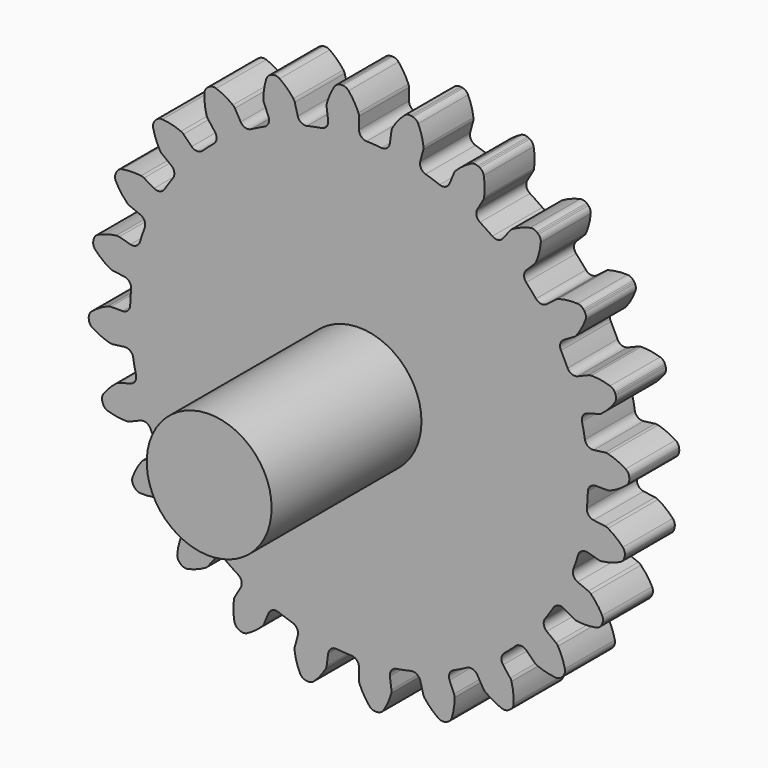
from build123d import *

# Parameters (mm, degrees)
F1_DEPTH = 6.35
F2_R     = 6.35
F3_DEPTH = 19.05
F4_R     = 3.175
F5_DEPTH = 5.08


with BuildPart() as f1:
    # F0 (on Front) → F1 (new body)
    with BuildSketch(Plane.XZ):
        with BuildLine():
            ThreePointArc((-3.140982, 23.858125), (-3.290336, 23.281763), (-3.798449, 22.971404))
            ThreePointArc((-3.798449, 22.971404), (-4.542353, 22.835951), (-5.281467, 22.676413))
            ThreePointArc((-5.281467, 22.676413), (-5.86967, 22.768701), (-6.22822, 23.244035))
            Line((-6.22822, 23.244035), (-6.534541, 24.38724))
            ThreePointArc((-6.534541, 24.38724), (-6.589373, 24.532912), (-6.671578, 24.665082))
            ThreePointArc((-6.671578, 24.665082), (-7.317741, 25.385798), (-8.065939, 25.999929))
            ThreePointArc((-8.065939, 25.999929), (-8.38342, 26.131474), (-8.726748, 26.116497))
            Line((-8.726748, 26.116497), (-8.8538, 26.082454))
            Line((-8.8538, 26.082454), (-8.975321, 26.032118))
            ThreePointArc((-8.975321, 26.032118), (-9.256819, 25.834995), (-9.428614, 25.537363))
            ThreePointArc((-9.428614, 25.537363), (-9.648341, 24.594666), (-9.722232, 23.629525))
            ThreePointArc((-9.722232, 23.629525), (-9.706989, 23.474624), (-9.661811, 23.325675))
            Line((-9.661811, 23.325675), (-9.208893, 22.232233))
            ThreePointArc((-9.208893, 22.232233), (-9.203985, 21.636854), (-9.614456, 21.205562))
            ThreePointArc((-9.614456, 21.205562), (-10.297955, 20.882187), (-10.970593, 20.536789))
            ThreePointArc((-10.970593, 20.536789), (-11.56264, 20.473694), (-12.031998, 20.840032))
            Line((-12.031998, 20.840032), (-12.623765, 21.865002))
            ThreePointArc((-12.623765, 21.865002), (-12.714431, 21.991518), (-12.828043, 22.097908))
            ThreePointArc((-12.828043, 22.097908), (-13.638723, 22.626827), (-14.520376, 23.026384))
            ThreePointArc((-14.520376, 23.026384), (-14.861085, 23.071277), (-15.188838, 22.96795))
            Line((-15.188838, 22.96795), (-15.30275, 22.902183))
            Line((-15.30275, 22.902183), (-15.407102, 22.822111))
            ThreePointArc((-15.407102, 22.822111), (-15.62799, 22.558848), (-15.716898, 22.226893))
            ThreePointArc((-15.716898, 22.226893), (-15.685149, 21.259449), (-15.506726, 20.30807))
            ThreePointArc((-15.506726, 20.30807), (-15.451911, 20.162392), (-15.369722, 20.030212))
            Line((-15.369722, 20.030212), (-14.649233, 19.091252))
            ThreePointArc((-14.649233, 19.091252), (-14.490396, 18.51743), (-14.775255, 17.994595))
            ThreePointArc((-14.775255, 17.994595), (-15.351768, 17.505337), (-15.912091, 16.997617))
            ThreePointArc((-15.912091, 16.997617), (-16.467634, 16.783439), (-17.015815, 17.015815))
            Line((-17.015815, 17.015815), (-17.852699, 17.852699))
            ThreePointArc((-17.852699, 17.852699), (-17.973021, 17.951438), (-18.110298, 18.024799))
            ThreePointArc((-18.110298, 18.024799), (-19.030249, 18.325876), (-19.985273, 18.483629))
            ThreePointArc((-19.985273, 18.483629), (-20.325992, 18.438811), (-20.615834, 18.254176))
            Line((-20.615834, 18.254176), (-20.708842, 18.161167))
            Line((-20.708842, 18.161167), (-20.788915, 18.056815))
            ThreePointArc((-20.788915, 18.056815), (-20.934138, 17.745353), (-20.934101, 17.401698))
            ThreePointArc((-20.934101, 17.401698), (-20.653041, 16.475435), (-20.234462, 15.602653))
            ThreePointArc((-20.234462, 15.602653), (-20.143811, 15.476126), (-20.030212, 15.369722))
            Line((-20.030212, 15.369722), (-19.091252, 14.649233))
            ThreePointArc((-19.091252, 14.649233), (-18.789312, 14.136073), (-18.929144, 13.557327))
            ThreePointArc((-18.929144, 13.557327), (-19.359384, 12.935527), (-19.769207, 12.300085))
            ThreePointArc((-19.769207, 12.300085), (-20.250387, 11.949419), (-20.840032, 12.031998))
            Line((-20.840032, 12.031998), (-21.865002, 12.623765))
            ThreePointArc((-21.865002, 12.623765), (-22.006779, 12.687998), (-22.158365, 12.723329))
            ThreePointArc((-22.158365, 12.723329), (-23.124894, 12.776046), (-24.088206, 12.681246))
            ThreePointArc((-24.088206, 12.681246), (-24.405716, 12.54977), (-24.637895, 12.296409))
            Line((-24.637895, 12.296409), (-24.703662, 12.182498))
            Line((-24.703662, 12.182498), (-24.753998, 12.060977))
            ThreePointArc((-24.753998, 12.060977), (-24.81366, 11.722541), (-24.724679, 11.390606))
            ThreePointArc((-24.724679, 11.390606), (-24.213462, 10.568648), (-23.583253, 9.833941))
            ThreePointArc((-23.583253, 9.833941), (-23.462944, 9.735188), (-23.325675, 9.661811))
            Line((-23.325675, 9.661811), (-22.232233, 9.208893))
            ThreePointArc((-22.232233, 9.208893), (-21.807766, 8.791366), (-21.793044, 8.196149))
            ThreePointArc((-21.793044, 8.196149), (-22.04769, 7.484182), (-22.279083, 6.764322))
            ThreePointArc((-22.279083, 6.764322), (-22.653109, 6.301067), (-23.244035, 6.22822))
            Line((-23.244035, 6.22822), (-24.38724, 6.534541))
            ThreePointArc((-24.38724, 6.534541), (-24.540812, 6.559891), (-24.696377, 6.554785))
            ThreePointArc((-24.696377, 6.554785), (-25.643616, 6.35555), (-26.549568, 6.014656))
            ThreePointArc((-26.549568, 6.014656), (-26.822231, 5.805482), (-26.980924, 5.500663))
            Line((-26.980924, 5.500663), (-27.014967, 5.373611))
            Line((-27.014967, 5.373611), (-27.032136, 5.243203))
            ThreePointArc((-27.032136, 5.243203), (-27.002172, 4.900857), (-26.830312, 4.603262))
            ThreePointArc((-26.830312, 4.603262), (-26.123776, 3.941625), (-25.324885, 3.395063))
            ThreePointArc((-25.324885, 3.395063), (-25.183115, 3.330813), (-25.031533, 3.295464))
            Line((-25.031533, 3.295464), (-23.858125, 3.140982))
            ThreePointArc((-23.858125, 3.140982), (-23.340058, 2.847543), (-23.171783, 2.276417))
            ThreePointArc((-23.171783, 2.276417), (-23.233482, 1.522803), (-23.270677, 0.767582))
            ThreePointArc((-23.270677, 0.767582), (-23.512059, 0.223307), (-24.063996, 0))
            Line((-24.063996, 0), (-25.247529, 0))
            ThreePointArc((-25.247529, 0), (-25.402429, -0.015261), (-25.551372, -0.060457))
            ThreePointArc((-25.551372, -0.060457), (-26.414769, -0.498067), (-27.201621, -1.061822))
            ThreePointArc((-27.201621, -1.061822), (-27.410855, -1.334439), (-27.485248, -1.669945))
            Line((-27.485248, -1.669945), (-27.485248, -1.801478))
            Line((-27.485248, -1.801478), (-27.468079, -1.931887))
            ThreePointArc((-27.468079, -1.931887), (-27.35053, -2.254812), (-27.107503, -2.497786))
            ThreePointArc((-27.107503, -2.497786), (-26.253797, -2.954013), (-25.340667, -3.275184))
            ThreePointArc((-25.340667, -3.275184), (-25.187099, -3.300552), (-25.031533, -3.295464))
            Line((-25.031533, -3.295464), (-23.858125, -3.140982))
            ThreePointArc((-23.858125, -3.140982), (-23.281763, -3.290336), (-22.971404, -3.798449))
            ThreePointArc((-22.971404, -3.798449), (-22.835951, -4.542353), (-22.676413, -5.281467))
            ThreePointArc((-22.676413, -5.281467), (-22.768701, -5.86967), (-23.244035, -6.22822))
            Line((-23.244035, -6.22822), (-24.38724, -6.534541))
            ThreePointArc((-24.38724, -6.534541), (-24.532912, -6.589373), (-24.665082, -6.671578))
            ThreePointArc((-24.665082, -6.671578), (-25.385798, -7.317741), (-25.999929, -8.065939))
            ThreePointArc((-25.999929, -8.065939), (-26.131474, -8.38342), (-26.116497, -8.726748))
            Line((-26.116497, -8.726748), (-26.082454, -8.8538))
            Line((-26.082454, -8.8538), (-26.032118, -8.975321))
            ThreePointArc((-26.032118, -8.975321), (-25.834995, -9.256819), (-25.537363, -9.428614))
            ThreePointArc((-25.537363, -9.428614), (-24.594666, -9.648341), (-23.629525, -9.722232))
            ThreePointArc((-23.629525, -9.722232), (-23.474624, -9.706989), (-23.325675, -9.661811))
            Line((-23.325675, -9.661811), (-22.232233, -9.208893))
            ThreePointArc((-22.232233, -9.208893), (-21.636854, -9.203985), (-21.205562, -9.614456))
            ThreePointArc((-21.205562, -9.614456), (-20.882187, -10.297955), (-20.536789, -10.970593))
            ThreePointArc((-20.536789, -10.970593), (-20.473694, -11.56264), (-20.840032, -12.031998))
            Line((-20.840032, -12.031998), (-21.865002, -12.623765))
            ThreePointArc((-21.865002, -12.623765), (-21.991518, -12.714431), (-22.097908, -12.828043))
            ThreePointArc((-22.097908, -12.828043), (-22.626827, -13.638723), (-23.026384, -14.520376))
            ThreePointArc((-23.026384, -14.520376), (-23.071277, -14.861085), (-22.96795, -15.188838))
            Line((-22.96795, -15.188838), (-22.902183, -15.30275))
            Line((-22.902183, -15.30275), (-22.822111, -15.407102))
            ThreePointArc((-22.822111, -15.407102), (-22.558848, -15.62799), (-22.226893, -15.716898))
            ThreePointArc((-22.226893, -15.716898), (-21.259449, -15.685149), (-20.30807, -15.506726))
            ThreePointArc((-20.30807, -15.506726), (-20.162392, -15.451911), (-20.030212, -15.369722))
            Line((-20.030212, -15.369722), (-19.091252, -14.649233))
            ThreePointArc((-19.091252, -14.649233), (-18.51743, -14.490396), (-17.994595, -14.775255))
            ThreePointArc((-17.994595, -14.775255), (-17.505337, -15.351768), (-16.997617, -15.912091))
            ThreePointArc((-16.997617, -15.912091), (-16.783439, -16.467634), (-17.015815, -17.015815))
            Line((-17.015815, -17.015815), (-17.852699, -17.852699))
            ThreePointArc((-17.852699, -17.852699), (-17.951438, -17.973021), (-18.024799, -18.110298))
            ThreePointArc((-18.024799, -18.110298), (-18.325876, -19.030249), (-18.483629, -19.985273))
            ThreePointArc((-18.483629, -19.985273), (-18.438811, -20.325992), (-18.254176, -20.615834))
            Line((-18.254176, -20.615834), (-18.161167, -20.708842))
            Line((-18.161167, -20.708842), (-18.056815, -20.788915))
            ThreePointArc((-18.056815, -20.788915), (-17.745353, -20.934138), (-17.401698, -20.934101))
            ThreePointArc((-17.401698, -20.934101), (-16.475435, -20.653041), (-15.602653, -20.234462))
            ThreePointArc((-15.602653, -20.234462), (-15.476126, -20.143811), (-15.369722, -20.030212))
            Line((-15.369722, -20.030212), (-14.649233, -19.091252))
            ThreePointArc((-14.649233, -19.091252), (-14.136073, -18.789312), (-13.557327, -18.929144))
            ThreePointArc((-13.557327, -18.929144), (-12.935527, -19.359384), (-12.300085, -19.769207))
            ThreePointArc((-12.300085, -19.769207), (-11.949419, -20.250387), (-12.031998, -20.840032))
            Line((-12.031998, -20.840032), (-12.623765, -21.865002))
            ThreePointArc((-12.623765, -21.865002), (-12.687998, -22.006779), (-12.723329, -22.158365))
            ThreePointArc((-12.723329, -22.158365), (-12.776046, -23.124894), (-12.681246, -24.088206))
            ThreePointArc((-12.681246, -24.088206), (-12.54977, -24.405716), (-12.296409, -24.637895))
            Line((-12.296409, -24.637895), (-12.182498, -24.703662))
            Line((-12.182498, -24.703662), (-12.060977, -24.753998))
            ThreePointArc((-12.060977, -24.753998), (-11.722541, -24.81366), (-11.390606, -24.724679))
            ThreePointArc((-11.390606, -24.724679), (-10.568648, -24.213462), (-9.833941, -23.583253))
            ThreePointArc((-9.833941, -23.583253), (-9.735188, -23.462944), (-9.661811, -23.325675))
            Line((-9.661811, -23.325675), (-9.208893, -22.232233))
            ThreePointArc((-9.208893, -22.232233), (-8.791366, -21.807766), (-8.196149, -21.793044))
            ThreePointArc((-8.196149, -21.793044), (-7.484182, -22.04769), (-6.764322, -22.279083))
            ThreePointArc((-6.764322, -22.279083), (-6.301067, -22.653109), (-6.22822, -23.244035))
            Line((-6.22822, -23.244035), (-6.534541, -24.38724))
            ThreePointArc((-6.534541, -24.38724), (-6.559891, -24.540812), (-6.554785, -24.696377))
            ThreePointArc((-6.554785, -24.696377), (-6.35555, -25.643616), (-6.014656, -26.549568))
            ThreePointArc((-6.014656, -26.549568), (-5.805482, -26.822231), (-5.500663, -26.980924))
            Line((-5.500663, -26.980924), (-5.373611, -27.014967))
            Line((-5.373611, -27.014967), (-5.243203, -27.032136))
            ThreePointArc((-5.243203, -27.032136), (-4.900857, -27.002172), (-4.603262, -26.830312))
            ThreePointArc((-4.603262, -26.830312), (-3.941625, -26.123776), (-3.395063, -25.324885))
            ThreePointArc((-3.395063, -25.324885), (-3.330813, -25.183115), (-3.295464, -25.031533))
            Line((-3.295464, -25.031533), (-3.140982, -23.858125))
            ThreePointArc((-3.140982, -23.858125), (-2.847543, -23.340058), (-2.276417, -23.171783))
            ThreePointArc((-2.276417, -23.171783), (-1.522803, -23.233482), (-0.767582, -23.270677))
            ThreePointArc((-0.767582, -23.270677), (-0.223307, -23.512059), (0, -24.063996))
            Line((0, -24.063996), (0, -25.247529))
            ThreePointArc((0, -25.247529), (0.015261, -25.402429), (0.060457, -25.551372))
            ThreePointArc((0.060457, -25.551372), (0.498067, -26.414769), (1.061822, -27.201621))
            ThreePointArc((1.061822, -27.201621), (1.334439, -27.410855), (1.669945, -27.485248))
            Line((1.669945, -27.485248), (1.801478, -27.485248))
            Line((1.801478, -27.485248), (1.931887, -27.468079))
            ThreePointArc((1.931887, -27.468079), (2.254812, -27.35053), (2.497786, -27.107503))
            ThreePointArc((2.497786, -27.107503), (2.954013, -26.253797), (3.275184, -25.340667))
            ThreePointArc((3.275184, -25.340667), (3.300552, -25.187099), (3.295464, -25.031533))
            Line((3.295464, -25.031533), (3.140982, -23.858125))
            ThreePointArc((3.140982, -23.858125), (3.290336, -23.281763), (3.798449, -22.971404))
            ThreePointArc((3.798449, -22.971404), (4.542353, -22.835951), (5.281467, -22.676413))
            ThreePointArc((5.281467, -22.676413), (5.86967, -22.768701), (6.22822, -23.244035))
            Line((6.22822, -23.244035), (6.534541, -24.38724))
            ThreePointArc((6.534541, -24.38724), (6.589373, -24.532912), (6.671578, -24.665082))
            ThreePointArc((6.671578, -24.665082), (7.317741, -25.385798), (8.065939, -25.999929))
            ThreePointArc((8.065939, -25.999929), (8.38342, -26.131474), (8.726748, -26.116497))
            Line((8.726748, -26.116497), (8.8538, -26.082454))
            Line((8.8538, -26.082454), (8.975321, -26.032118))
            ThreePointArc((8.975321, -26.032118), (9.256819, -25.834995), (9.428614, -25.537363))
            ThreePointArc((9.428614, -25.537363), (9.648341, -24.594666), (9.722232, -23.629525))
            ThreePointArc((9.722232, -23.629525), (9.706989, -23.474624), (9.661811, -23.325675))
            Line((9.661811, -23.325675), (9.208893, -22.232233))
            ThreePointArc((9.208893, -22.232233), (9.203985, -21.636854), (9.614456, -21.205562))
            ThreePointArc((9.614456, -21.205562), (10.297955, -20.882187), (10.970593, -20.536789))
            ThreePointArc((10.970593, -20.536789), (11.56264, -20.473694), (12.031998, -20.840032))
            Line((12.031998, -20.840032), (12.623765, -21.865002))
            ThreePointArc((12.623765, -21.865002), (12.714431, -21.991518), (12.828043, -22.097908))
            ThreePointArc((12.828043, -22.097908), (13.638723, -22.626827), (14.520376, -23.026384))
            ThreePointArc((14.520376, -23.026384), (14.861085, -23.071277), (15.188838, -22.96795))
            Line((15.188838, -22.96795), (15.30275, -22.902183))
            Line((15.30275, -22.902183), (15.407102, -22.822111))
            ThreePointArc((15.407102, -22.822111), (15.62799, -22.558848), (15.716898, -22.226893))
            ThreePointArc((15.716898, -22.226893), (15.685149, -21.259449), (15.506726, -20.30807))
            ThreePointArc((15.506726, -20.30807), (15.451911, -20.162392), (15.369722, -20.030212))
            Line((15.369722, -20.030212), (14.649233, -19.091252))
            ThreePointArc((14.649233, -19.091252), (14.490396, -18.51743), (14.775255, -17.994595))
            ThreePointArc((14.775255, -17.994595), (15.351768, -17.505337), (15.912091, -16.997617))
            ThreePointArc((15.912091, -16.997617), (16.467634, -16.783439), (17.015815, -17.015815))
            Line((17.015815, -17.015815), (17.852699, -17.852699))
            ThreePointArc((17.852699, -17.852699), (17.973021, -17.951438), (18.110298, -18.024799))
            ThreePointArc((18.110298, -18.024799), (19.030249, -18.325876), (19.985273, -18.483629))
            ThreePointArc((19.985273, -18.483629), (20.325992, -18.438811), (20.615834, -18.254176))
            Line((20.615834, -18.254176), (20.708842, -18.161167))
            Line((20.708842, -18.161167), (20.788915, -18.056815))
            ThreePointArc((20.788915, -18.056815), (20.934138, -17.745353), (20.934101, -17.401698))
            ThreePointArc((20.934101, -17.401698), (20.653041, -16.475435), (20.234462, -15.602653))
            ThreePointArc((20.234462, -15.602653), (20.143811, -15.476126), (20.030212, -15.369722))
            Line((20.030212, -15.369722), (19.091252, -14.649233))
            ThreePointArc((19.091252, -14.649233), (18.789312, -14.136073), (18.929144, -13.557327))
            ThreePointArc((18.929144, -13.557327), (19.359384, -12.935527), (19.769207, -12.300085))
            ThreePointArc((19.769207, -12.300085), (20.250387, -11.949419), (20.840032, -12.031998))
            Line((20.840032, -12.031998), (21.865002, -12.623765))
            ThreePointArc((21.865002, -12.623765), (22.006779, -12.687998), (22.158365, -12.723329))
            ThreePointArc((22.158365, -12.723329), (23.124894, -12.776046), (24.088206, -12.681246))
            ThreePointArc((24.088206, -12.681246), (24.405716, -12.54977), (24.637895, -12.296409))
            Line((24.637895, -12.296409), (24.703662, -12.182498))
            Line((24.703662, -12.182498), (24.753998, -12.060977))
            ThreePointArc((24.753998, -12.060977), (24.81366, -11.722541), (24.724679, -11.390606))
            ThreePointArc((24.724679, -11.390606), (24.213462, -10.568648), (23.583253, -9.833941))
            ThreePointArc((23.583253, -9.833941), (23.462944, -9.735188), (23.325675, -9.661811))
            Line((23.325675, -9.661811), (22.232233, -9.208893))
            ThreePointArc((22.232233, -9.208893), (21.807766, -8.791366), (21.793044, -8.196149))
            ThreePointArc((21.793044, -8.196149), (22.04769, -7.484182), (22.279083, -6.764322))
            ThreePointArc((22.279083, -6.764322), (22.653109, -6.301067), (23.244035, -6.22822))
            Line((23.244035, -6.22822), (24.38724, -6.534541))
            ThreePointArc((24.38724, -6.534541), (24.540812, -6.559891), (24.696377, -6.554785))
            ThreePointArc((24.696377, -6.554785), (25.643616, -6.35555), (26.549568, -6.014656))
            ThreePointArc((26.549568, -6.014656), (26.822231, -5.805482), (26.980924, -5.500663))
            Line((26.980924, -5.500663), (27.014967, -5.373611))
            Line((27.014967, -5.373611), (27.032136, -5.243203))
            ThreePointArc((27.032136, -5.243203), (27.002172, -4.900857), (26.830312, -4.603262))
            ThreePointArc((26.830312, -4.603262), (26.123776, -3.941625), (25.324885, -3.395063))
            ThreePointArc((25.324885, -3.395063), (25.183115, -3.330813), (25.031533, -3.295464))
            Line((25.031533, -3.295464), (23.858125, -3.140982))
            ThreePointArc((23.858125, -3.140982), (23.340058, -2.847543), (23.171783, -2.276417))
            ThreePointArc((23.171783, -2.276417), (23.233482, -1.522803), (23.270677, -0.767582))
            ThreePointArc((23.270677, -0.767582), (23.512059, -0.223307), (24.063996, 0))
            Line((24.063996, 0), (25.247529, 0))
            ThreePointArc((25.247529, 0), (25.402429, 0.015261), (25.551372, 0.060457))
            ThreePointArc((25.551372, 0.060457), (26.414769, 0.498067), (27.201621, 1.061822))
            ThreePointArc((27.201621, 1.061822), (27.410855, 1.334439), (27.485248, 1.669945))
            Line((27.485248, 1.669945), (27.485248, 1.801478))
            Line((27.485248, 1.801478), (27.468079, 1.931887))
            ThreePointArc((27.468079, 1.931887), (27.35053, 2.254812), (27.107503, 2.497786))
            ThreePointArc((27.107503, 2.497786), (26.253797, 2.954013), (25.340667, 3.275184))
            ThreePointArc((25.340667, 3.275184), (25.187099, 3.300552), (25.031533, 3.295464))
            Line((25.031533, 3.295464), (23.858125, 3.140982))
            ThreePointArc((23.858125, 3.140982), (23.281763, 3.290336), (22.971404, 3.798449))
            ThreePointArc((22.971404, 3.798449), (22.835951, 4.542353), (22.676413, 5.281467))
            ThreePointArc((22.676413, 5.281467), (22.768701, 5.86967), (23.244035, 6.22822))
            Line((23.244035, 6.22822), (24.38724, 6.534541))
            ThreePointArc((24.38724, 6.534541), (24.532912, 6.589373), (24.665082, 6.671578))
            ThreePointArc((24.665082, 6.671578), (25.385798, 7.317741), (25.999929, 8.065939))
            ThreePointArc((25.999929, 8.065939), (26.131474, 8.38342), (26.116497, 8.726748))
            Line((26.116497, 8.726748), (26.082454, 8.8538))
            Line((26.082454, 8.8538), (26.032118, 8.975321))
            ThreePointArc((26.032118, 8.975321), (25.834995, 9.256819), (25.537363, 9.428614))
            ThreePointArc((25.537363, 9.428614), (24.594666, 9.648341), (23.629525, 9.722232))
            ThreePointArc((23.629525, 9.722232), (23.474624, 9.706989), (23.325675, 9.661811))
            Line((23.325675, 9.661811), (22.232233, 9.208893))
            ThreePointArc((22.232233, 9.208893), (21.636854, 9.203985), (21.205562, 9.614456))
            ThreePointArc((21.205562, 9.614456), (20.882187, 10.297955), (20.536789, 10.970593))
            ThreePointArc((20.536789, 10.970593), (20.473694, 11.56264), (20.840032, 12.031998))
            Line((20.840032, 12.031998), (21.865002, 12.623765))
            ThreePointArc((21.865002, 12.623765), (21.991518, 12.714431), (22.097908, 12.828043))
            ThreePointArc((22.097908, 12.828043), (22.626827, 13.638723), (23.026384, 14.520376))
            ThreePointArc((23.026384, 14.520376), (23.071277, 14.861085), (22.96795, 15.188838))
            Line((22.96795, 15.188838), (22.902183, 15.30275))
            Line((22.902183, 15.30275), (22.822111, 15.407102))
            ThreePointArc((22.822111, 15.407102), (22.558848, 15.62799), (22.226893, 15.716898))
            ThreePointArc((22.226893, 15.716898), (21.259449, 15.685149), (20.30807, 15.506726))
            ThreePointArc((20.30807, 15.506726), (20.162392, 15.451911), (20.030212, 15.369722))
            Line((20.030212, 15.369722), (19.091252, 14.649233))
            ThreePointArc((19.091252, 14.649233), (18.51743, 14.490396), (17.994595, 14.775255))
            ThreePointArc((17.994595, 14.775255), (17.505337, 15.351768), (16.997617, 15.912091))
            ThreePointArc((16.997617, 15.912091), (16.783439, 16.467634), (17.015815, 17.015815))
            Line((17.015815, 17.015815), (17.852699, 17.852699))
            ThreePointArc((17.852699, 17.852699), (17.951438, 17.973021), (18.024799, 18.110298))
            ThreePointArc((18.024799, 18.110298), (18.325876, 19.030249), (18.483629, 19.985273))
            ThreePointArc((18.483629, 19.985273), (18.438811, 20.325992), (18.254176, 20.615834))
            Line((18.254176, 20.615834), (18.161167, 20.708842))
            Line((18.161167, 20.708842), (18.056815, 20.788915))
            ThreePointArc((18.056815, 20.788915), (17.745353, 20.934138), (17.401698, 20.934101))
            ThreePointArc((17.401698, 20.934101), (16.475435, 20.653041), (15.602653, 20.234462))
            ThreePointArc((15.602653, 20.234462), (15.476126, 20.143811), (15.369722, 20.030212))
            Line((15.369722, 20.030212), (14.649233, 19.091252))
            ThreePointArc((14.649233, 19.091252), (14.136073, 18.789312), (13.557327, 18.929144))
            ThreePointArc((13.557327, 18.929144), (12.935527, 19.359384), (12.300085, 19.769207))
            ThreePointArc((12.300085, 19.769207), (11.949419, 20.250387), (12.031998, 20.840032))
            Line((12.031998, 20.840032), (12.623765, 21.865002))
            ThreePointArc((12.623765, 21.865002), (12.687998, 22.006779), (12.723329, 22.158365))
            ThreePointArc((12.723329, 22.158365), (12.776046, 23.124894), (12.681246, 24.088206))
            ThreePointArc((12.681246, 24.088206), (12.54977, 24.405716), (12.296409, 24.637895))
            Line((12.296409, 24.637895), (12.182498, 24.703662))
            Line((12.182498, 24.703662), (12.060977, 24.753998))
            ThreePointArc((12.060977, 24.753998), (11.722541, 24.81366), (11.390606, 24.724679))
            ThreePointArc((11.390606, 24.724679), (10.568648, 24.213462), (9.833941, 23.583253))
            ThreePointArc((9.833941, 23.583253), (9.735188, 23.462944), (9.661811, 23.325675))
            Line((9.661811, 23.325675), (9.208893, 22.232233))
            ThreePointArc((9.208893, 22.232233), (8.791366, 21.807766), (8.196149, 21.793044))
            ThreePointArc((8.196149, 21.793044), (7.484182, 22.04769), (6.764322, 22.279083))
            ThreePointArc((6.764322, 22.279083), (6.301067, 22.653109), (6.22822, 23.244035))
            Line((6.22822, 23.244035), (6.534541, 24.38724))
            ThreePointArc((6.534541, 24.38724), (6.559891, 24.540812), (6.554785, 24.696377))
            ThreePointArc((6.554785, 24.696377), (6.35555, 25.643616), (6.014656, 26.549568))
            ThreePointArc((6.014656, 26.549568), (5.805482, 26.822231), (5.500663, 26.980924))
            Line((5.500663, 26.980924), (5.373611, 27.014967))
            Line((5.373611, 27.014967), (5.243203, 27.032136))
            ThreePointArc((5.243203, 27.032136), (4.900857, 27.002172), (4.603262, 26.830312))
            ThreePointArc((4.603262, 26.830312), (3.941625, 26.123776), (3.395063, 25.324885))
            ThreePointArc((3.395063, 25.324885), (3.330813, 25.183115), (3.295464, 25.031533))
            Line((3.295464, 25.031533), (3.140982, 23.858125))
            ThreePointArc((3.140982, 23.858125), (2.847543, 23.340058), (2.276417, 23.171783))
            ThreePointArc((2.276417, 23.171783), (1.522803, 23.233482), (0.767582, 23.270677))
            ThreePointArc((0.767582, 23.270677), (0.223307, 23.512059), (0, 24.063996))
            Line((0, 24.063996), (0, 25.247529))
            ThreePointArc((0, 25.247529), (-0.015261, 25.402429), (-0.060457, 25.551372))
            ThreePointArc((-0.060457, 25.551372), (-0.498067, 26.414769), (-1.061822, 27.201621))
            ThreePointArc((-1.061822, 27.201621), (-1.334439, 27.410855), (-1.669945, 27.485248))
            Line((-1.669945, 27.485248), (-1.801478, 27.485248))
            Line((-1.801478, 27.485248), (-1.931887, 27.468079))
            ThreePointArc((-1.931887, 27.468079), (-2.254812, 27.35053), (-2.497786, 27.107503))
            ThreePointArc((-2.497786, 27.107503), (-2.954013, 26.253797), (-3.275184, 25.340667))
            ThreePointArc((-3.275184, 25.340667), (-3.300552, 25.187099), (-3.295464, 25.031533))
            Line((-3.295464, 25.031533), (-3.140982, 23.858125))
        make_face()
        with BuildLine():
            ThreePointArc((-3.140982, 23.858125), (-3.290336, 23.281763), (-3.798449, 22.971404))
            ThreePointArc((-3.798449, 22.971404), (-4.542353, 22.835951), (-5.281467, 22.676413))
            ThreePointArc((-5.281467, 22.676413), (-5.86967, 22.768701), (-6.22822, 23.244035))
            Line((-6.22822, 23.244035), (-6.534541, 24.38724))
            ThreePointArc((-6.534541, 24.38724), (-6.589373, 24.532912), (-6.671578, 24.665082))
            ThreePointArc((-6.671578, 24.665082), (-7.317741, 25.385798), (-8.065939, 25.999929))
            ThreePointArc((-8.065939, 25.999929), (-8.38342, 26.131474), (-8.726748, 26.116497))
            Line((-8.726748, 26.116497), (-8.8538, 26.082454))
            Line((-8.8538, 26.082454), (-8.975321, 26.032118))
            ThreePointArc((-8.975321, 26.032118), (-9.256819, 25.834995), (-9.428614, 25.537363))
            ThreePointArc((-9.428614, 25.537363), (-9.648341, 24.594666), (-9.722232, 23.629525))
            ThreePointArc((-9.722232, 23.629525), (-9.706989, 23.474624), (-9.661811, 23.325675))
            Line((-9.661811, 23.325675), (-9.208893, 22.232233))
            ThreePointArc((-9.208893, 22.232233), (-9.203985, 21.636854), (-9.614456, 21.205562))
            ThreePointArc((-9.614456, 21.205562), (-10.297955, 20.882187), (-10.970593, 20.536789))
            ThreePointArc((-10.970593, 20.536789), (-11.56264, 20.473694), (-12.031998, 20.840032))
            Line((-12.031998, 20.840032), (-12.623765, 21.865002))
            ThreePointArc((-12.623765, 21.865002), (-12.714431, 21.991518), (-12.828043, 22.097908))
            ThreePointArc((-12.828043, 22.097908), (-13.638723, 22.626827), (-14.520376, 23.026384))
            ThreePointArc((-14.520376, 23.026384), (-14.861085, 23.071277), (-15.188838, 22.96795))
            Line((-15.188838, 22.96795), (-15.30275, 22.902183))
            Line((-15.30275, 22.902183), (-15.407102, 22.822111))
            ThreePointArc((-15.407102, 22.822111), (-15.62799, 22.558848), (-15.716898, 22.226893))
            ThreePointArc((-15.716898, 22.226893), (-15.685149, 21.259449), (-15.506726, 20.30807))
            ThreePointArc((-15.506726, 20.30807), (-15.451911, 20.162392), (-15.369722, 20.030212))
            Line((-15.369722, 20.030212), (-14.649233, 19.091252))
            ThreePointArc((-14.649233, 19.091252), (-14.490396, 18.51743), (-14.775255, 17.994595))
            ThreePointArc((-14.775255, 17.994595), (-15.351768, 17.505337), (-15.912091, 16.997617))
            ThreePointArc((-15.912091, 16.997617), (-16.467634, 16.783439), (-17.015815, 17.015815))
            Line((-17.015815, 17.015815), (-17.852699, 17.852699))
            ThreePointArc((-17.852699, 17.852699), (-17.973021, 17.951438), (-18.110298, 18.024799))
            ThreePointArc((-18.110298, 18.024799), (-19.030249, 18.325876), (-19.985273, 18.483629))
            ThreePointArc((-19.985273, 18.483629), (-20.325992, 18.438811), (-20.615834, 18.254176))
            Line((-20.615834, 18.254176), (-20.708842, 18.161167))
            Line((-20.708842, 18.161167), (-20.788915, 18.056815))
            ThreePointArc((-20.788915, 18.056815), (-20.934138, 17.745353), (-20.934101, 17.401698))
            ThreePointArc((-20.934101, 17.401698), (-20.653041, 16.475435), (-20.234462, 15.602653))
            ThreePointArc((-20.234462, 15.602653), (-20.143811, 15.476126), (-20.030212, 15.369722))
            Line((-20.030212, 15.369722), (-19.091252, 14.649233))
            ThreePointArc((-19.091252, 14.649233), (-18.789312, 14.136073), (-18.929144, 13.557327))
            ThreePointArc((-18.929144, 13.557327), (-19.359384, 12.935527), (-19.769207, 12.300085))
            ThreePointArc((-19.769207, 12.300085), (-20.250387, 11.949419), (-20.840032, 12.031998))
            Line((-20.840032, 12.031998), (-21.865002, 12.623765))
            ThreePointArc((-21.865002, 12.623765), (-22.006779, 12.687998), (-22.158365, 12.723329))
            ThreePointArc((-22.158365, 12.723329), (-23.124894, 12.776046), (-24.088206, 12.681246))
            ThreePointArc((-24.088206, 12.681246), (-24.405716, 12.54977), (-24.637895, 12.296409))
            Line((-24.637895, 12.296409), (-24.703662, 12.182498))
            Line((-24.703662, 12.182498), (-24.753998, 12.060977))
            ThreePointArc((-24.753998, 12.060977), (-24.81366, 11.722541), (-24.724679, 11.390606))
            ThreePointArc((-24.724679, 11.390606), (-24.213462, 10.568648), (-23.583253, 9.833941))
            ThreePointArc((-23.583253, 9.833941), (-23.462944, 9.735188), (-23.325675, 9.661811))
            Line((-23.325675, 9.661811), (-22.232233, 9.208893))
            ThreePointArc((-22.232233, 9.208893), (-21.807766, 8.791366), (-21.793044, 8.196149))
            ThreePointArc((-21.793044, 8.196149), (-22.04769, 7.484182), (-22.279083, 6.764322))
            ThreePointArc((-22.279083, 6.764322), (-22.653109, 6.301067), (-23.244035, 6.22822))
            Line((-23.244035, 6.22822), (-24.38724, 6.534541))
            ThreePointArc((-24.38724, 6.534541), (-24.540812, 6.559891), (-24.696377, 6.554785))
            ThreePointArc((-24.696377, 6.554785), (-25.643616, 6.35555), (-26.549568, 6.014656))
            ThreePointArc((-26.549568, 6.014656), (-26.822231, 5.805482), (-26.980924, 5.500663))
            Line((-26.980924, 5.500663), (-27.014967, 5.373611))
            Line((-27.014967, 5.373611), (-27.032136, 5.243203))
            ThreePointArc((-27.032136, 5.243203), (-27.002172, 4.900857), (-26.830312, 4.603262))
            ThreePointArc((-26.830312, 4.603262), (-26.123776, 3.941625), (-25.324885, 3.395063))
            ThreePointArc((-25.324885, 3.395063), (-25.183115, 3.330813), (-25.031533, 3.295464))
            Line((-25.031533, 3.295464), (-23.858125, 3.140982))
            ThreePointArc((-23.858125, 3.140982), (-23.340058, 2.847543), (-23.171783, 2.276417))
            ThreePointArc((-23.171783, 2.276417), (-23.233482, 1.522803), (-23.270677, 0.767582))
            ThreePointArc((-23.270677, 0.767582), (-23.512059, 0.223307), (-24.063996, 0))
            Line((-24.063996, 0), (-25.247529, 0))
            ThreePointArc((-25.247529, 0), (-25.402429, -0.015261), (-25.551372, -0.060457))
            ThreePointArc((-25.551372, -0.060457), (-26.414769, -0.498067), (-27.201621, -1.061822))
            ThreePointArc((-27.201621, -1.061822), (-27.410855, -1.334439), (-27.485248, -1.669945))
            Line((-27.485248, -1.669945), (-27.485248, -1.801478))
            Line((-27.485248, -1.801478), (-27.468079, -1.931887))
            ThreePointArc((-27.468079, -1.931887), (-27.35053, -2.254812), (-27.107503, -2.497786))
            ThreePointArc((-27.107503, -2.497786), (-26.253797, -2.954013), (-25.340667, -3.275184))
            ThreePointArc((-25.340667, -3.275184), (-25.187099, -3.300552), (-25.031533, -3.295464))
            Line((-25.031533, -3.295464), (-23.858125, -3.140982))
            ThreePointArc((-23.858125, -3.140982), (-23.281763, -3.290336), (-22.971404, -3.798449))
            ThreePointArc((-22.971404, -3.798449), (-22.835951, -4.542353), (-22.676413, -5.281467))
            ThreePointArc((-22.676413, -5.281467), (-22.768701, -5.86967), (-23.244035, -6.22822))
            Line((-23.244035, -6.22822), (-24.38724, -6.534541))
            ThreePointArc((-24.38724, -6.534541), (-24.532912, -6.589373), (-24.665082, -6.671578))
            ThreePointArc((-24.665082, -6.671578), (-25.385798, -7.317741), (-25.999929, -8.065939))
            ThreePointArc((-25.999929, -8.065939), (-26.131474, -8.38342), (-26.116497, -8.726748))
            Line((-26.116497, -8.726748), (-26.082454, -8.8538))
            Line((-26.082454, -8.8538), (-26.032118, -8.975321))
            ThreePointArc((-26.032118, -8.975321), (-25.834995, -9.256819), (-25.537363, -9.428614))
            ThreePointArc((-25.537363, -9.428614), (-24.594666, -9.648341), (-23.629525, -9.722232))
            ThreePointArc((-23.629525, -9.722232), (-23.474624, -9.706989), (-23.325675, -9.661811))
            Line((-23.325675, -9.661811), (-22.232233, -9.208893))
            ThreePointArc((-22.232233, -9.208893), (-21.636854, -9.203985), (-21.205562, -9.614456))
            ThreePointArc((-21.205562, -9.614456), (-20.882187, -10.297955), (-20.536789, -10.970593))
            ThreePointArc((-20.536789, -10.970593), (-20.473694, -11.56264), (-20.840032, -12.031998))
            Line((-20.840032, -12.031998), (-21.865002, -12.623765))
            ThreePointArc((-21.865002, -12.623765), (-21.991518, -12.714431), (-22.097908, -12.828043))
            ThreePointArc((-22.097908, -12.828043), (-22.626827, -13.638723), (-23.026384, -14.520376))
            ThreePointArc((-23.026384, -14.520376), (-23.071277, -14.861085), (-22.96795, -15.188838))
            Line((-22.96795, -15.188838), (-22.902183, -15.30275))
            Line((-22.902183, -15.30275), (-22.822111, -15.407102))
            ThreePointArc((-22.822111, -15.407102), (-22.558848, -15.62799), (-22.226893, -15.716898))
            ThreePointArc((-22.226893, -15.716898), (-21.259449, -15.685149), (-20.30807, -15.506726))
            ThreePointArc((-20.30807, -15.506726), (-20.162392, -15.451911), (-20.030212, -15.369722))
            Line((-20.030212, -15.369722), (-19.091252, -14.649233))
            ThreePointArc((-19.091252, -14.649233), (-18.51743, -14.490396), (-17.994595, -14.775255))
            ThreePointArc((-17.994595, -14.775255), (-17.505337, -15.351768), (-16.997617, -15.912091))
            ThreePointArc((-16.997617, -15.912091), (-16.783439, -16.467634), (-17.015815, -17.015815))
            Line((-17.015815, -17.015815), (-17.852699, -17.852699))
            ThreePointArc((-17.852699, -17.852699), (-17.951438, -17.973021), (-18.024799, -18.110298))
            ThreePointArc((-18.024799, -18.110298), (-18.325876, -19.030249), (-18.483629, -19.985273))
            ThreePointArc((-18.483629, -19.985273), (-18.438811, -20.325992), (-18.254176, -20.615834))
            Line((-18.254176, -20.615834), (-18.161167, -20.708842))
            Line((-18.161167, -20.708842), (-18.056815, -20.788915))
            ThreePointArc((-18.056815, -20.788915), (-17.745353, -20.934138), (-17.401698, -20.934101))
            ThreePointArc((-17.401698, -20.934101), (-16.475435, -20.653041), (-15.602653, -20.234462))
            ThreePointArc((-15.602653, -20.234462), (-15.476126, -20.143811), (-15.369722, -20.030212))
            Line((-15.369722, -20.030212), (-14.649233, -19.091252))
            ThreePointArc((-14.649233, -19.091252), (-14.136073, -18.789312), (-13.557327, -18.929144))
            ThreePointArc((-13.557327, -18.929144), (-12.935527, -19.359384), (-12.300085, -19.769207))
            ThreePointArc((-12.300085, -19.769207), (-11.949419, -20.250387), (-12.031998, -20.840032))
            Line((-12.031998, -20.840032), (-12.623765, -21.865002))
            ThreePointArc((-12.623765, -21.865002), (-12.687998, -22.006779), (-12.723329, -22.158365))
            ThreePointArc((-12.723329, -22.158365), (-12.776046, -23.124894), (-12.681246, -24.088206))
            ThreePointArc((-12.681246, -24.088206), (-12.54977, -24.405716), (-12.296409, -24.637895))
            Line((-12.296409, -24.637895), (-12.182498, -24.703662))
            Line((-12.182498, -24.703662), (-12.060977, -24.753998))
            ThreePointArc((-12.060977, -24.753998), (-11.722541, -24.81366), (-11.390606, -24.724679))
            ThreePointArc((-11.390606, -24.724679), (-10.568648, -24.213462), (-9.833941, -23.583253))
            ThreePointArc((-9.833941, -23.583253), (-9.735188, -23.462944), (-9.661811, -23.325675))
            Line((-9.661811, -23.325675), (-9.208893, -22.232233))
            ThreePointArc((-9.208893, -22.232233), (-8.791366, -21.807766), (-8.196149, -21.793044))
            ThreePointArc((-8.196149, -21.793044), (-7.484182, -22.04769), (-6.764322, -22.279083))
            ThreePointArc((-6.764322, -22.279083), (-6.301067, -22.653109), (-6.22822, -23.244035))
            Line((-6.22822, -23.244035), (-6.534541, -24.38724))
            ThreePointArc((-6.534541, -24.38724), (-6.559891, -24.540812), (-6.554785, -24.696377))
            ThreePointArc((-6.554785, -24.696377), (-6.35555, -25.643616), (-6.014656, -26.549568))
            ThreePointArc((-6.014656, -26.549568), (-5.805482, -26.822231), (-5.500663, -26.980924))
            Line((-5.500663, -26.980924), (-5.373611, -27.014967))
            Line((-5.373611, -27.014967), (-5.243203, -27.032136))
            ThreePointArc((-5.243203, -27.032136), (-4.900857, -27.002172), (-4.603262, -26.830312))
            ThreePointArc((-4.603262, -26.830312), (-3.941625, -26.123776), (-3.395063, -25.324885))
            ThreePointArc((-3.395063, -25.324885), (-3.330813, -25.183115), (-3.295464, -25.031533))
            Line((-3.295464, -25.031533), (-3.140982, -23.858125))
            ThreePointArc((-3.140982, -23.858125), (-2.847543, -23.340058), (-2.276417, -23.171783))
            ThreePointArc((-2.276417, -23.171783), (-1.522803, -23.233482), (-0.767582, -23.270677))
            ThreePointArc((-0.767582, -23.270677), (-0.223307, -23.512059), (0, -24.063996))
            Line((0, -24.063996), (0, -25.247529))
            ThreePointArc((0, -25.247529), (0.015261, -25.402429), (0.060457, -25.551372))
            ThreePointArc((0.060457, -25.551372), (0.498067, -26.414769), (1.061822, -27.201621))
            ThreePointArc((1.061822, -27.201621), (1.334439, -27.410855), (1.669945, -27.485248))
            Line((1.669945, -27.485248), (1.801478, -27.485248))
            Line((1.801478, -27.485248), (1.931887, -27.468079))
            ThreePointArc((1.931887, -27.468079), (2.254812, -27.35053), (2.497786, -27.107503))
            ThreePointArc((2.497786, -27.107503), (2.954013, -26.253797), (3.275184, -25.340667))
            ThreePointArc((3.275184, -25.340667), (3.300552, -25.187099), (3.295464, -25.031533))
            Line((3.295464, -25.031533), (3.140982, -23.858125))
            ThreePointArc((3.140982, -23.858125), (3.290336, -23.281763), (3.798449, -22.971404))
            ThreePointArc((3.798449, -22.971404), (4.542353, -22.835951), (5.281467, -22.676413))
            ThreePointArc((5.281467, -22.676413), (5.86967, -22.768701), (6.22822, -23.244035))
            Line((6.22822, -23.244035), (6.534541, -24.38724))
            ThreePointArc((6.534541, -24.38724), (6.589373, -24.532912), (6.671578, -24.665082))
            ThreePointArc((6.671578, -24.665082), (7.317741, -25.385798), (8.065939, -25.999929))
            ThreePointArc((8.065939, -25.999929), (8.38342, -26.131474), (8.726748, -26.116497))
            Line((8.726748, -26.116497), (8.8538, -26.082454))
            Line((8.8538, -26.082454), (8.975321, -26.032118))
            ThreePointArc((8.975321, -26.032118), (9.256819, -25.834995), (9.428614, -25.537363))
            ThreePointArc((9.428614, -25.537363), (9.648341, -24.594666), (9.722232, -23.629525))
            ThreePointArc((9.722232, -23.629525), (9.706989, -23.474624), (9.661811, -23.325675))
            Line((9.661811, -23.325675), (9.208893, -22.232233))
            ThreePointArc((9.208893, -22.232233), (9.203985, -21.636854), (9.614456, -21.205562))
            ThreePointArc((9.614456, -21.205562), (10.297955, -20.882187), (10.970593, -20.536789))
            ThreePointArc((10.970593, -20.536789), (11.56264, -20.473694), (12.031998, -20.840032))
            Line((12.031998, -20.840032), (12.623765, -21.865002))
            ThreePointArc((12.623765, -21.865002), (12.714431, -21.991518), (12.828043, -22.097908))
            ThreePointArc((12.828043, -22.097908), (13.638723, -22.626827), (14.520376, -23.026384))
            ThreePointArc((14.520376, -23.026384), (14.861085, -23.071277), (15.188838, -22.96795))
            Line((15.188838, -22.96795), (15.30275, -22.902183))
            Line((15.30275, -22.902183), (15.407102, -22.822111))
            ThreePointArc((15.407102, -22.822111), (15.62799, -22.558848), (15.716898, -22.226893))
            ThreePointArc((15.716898, -22.226893), (15.685149, -21.259449), (15.506726, -20.30807))
            ThreePointArc((15.506726, -20.30807), (15.451911, -20.162392), (15.369722, -20.030212))
            Line((15.369722, -20.030212), (14.649233, -19.091252))
            ThreePointArc((14.649233, -19.091252), (14.490396, -18.51743), (14.775255, -17.994595))
            ThreePointArc((14.775255, -17.994595), (15.351768, -17.505337), (15.912091, -16.997617))
            ThreePointArc((15.912091, -16.997617), (16.467634, -16.783439), (17.015815, -17.015815))
            Line((17.015815, -17.015815), (17.852699, -17.852699))
            ThreePointArc((17.852699, -17.852699), (17.973021, -17.951438), (18.110298, -18.024799))
            ThreePointArc((18.110298, -18.024799), (19.030249, -18.325876), (19.985273, -18.483629))
            ThreePointArc((19.985273, -18.483629), (20.325992, -18.438811), (20.615834, -18.254176))
            Line((20.615834, -18.254176), (20.708842, -18.161167))
            Line((20.708842, -18.161167), (20.788915, -18.056815))
            ThreePointArc((20.788915, -18.056815), (20.934138, -17.745353), (20.934101, -17.401698))
            ThreePointArc((20.934101, -17.401698), (20.653041, -16.475435), (20.234462, -15.602653))
            ThreePointArc((20.234462, -15.602653), (20.143811, -15.476126), (20.030212, -15.369722))
            Line((20.030212, -15.369722), (19.091252, -14.649233))
            ThreePointArc((19.091252, -14.649233), (18.789312, -14.136073), (18.929144, -13.557327))
            ThreePointArc((18.929144, -13.557327), (19.359384, -12.935527), (19.769207, -12.300085))
            ThreePointArc((19.769207, -12.300085), (20.250387, -11.949419), (20.840032, -12.031998))
            Line((20.840032, -12.031998), (21.865002, -12.623765))
            ThreePointArc((21.865002, -12.623765), (22.006779, -12.687998), (22.158365, -12.723329))
            ThreePointArc((22.158365, -12.723329), (23.124894, -12.776046), (24.088206, -12.681246))
            ThreePointArc((24.088206, -12.681246), (24.405716, -12.54977), (24.637895, -12.296409))
            Line((24.637895, -12.296409), (24.703662, -12.182498))
            Line((24.703662, -12.182498), (24.753998, -12.060977))
            ThreePointArc((24.753998, -12.060977), (24.81366, -11.722541), (24.724679, -11.390606))
            ThreePointArc((24.724679, -11.390606), (24.213462, -10.568648), (23.583253, -9.833941))
            ThreePointArc((23.583253, -9.833941), (23.462944, -9.735188), (23.325675, -9.661811))
            Line((23.325675, -9.661811), (22.232233, -9.208893))
            ThreePointArc((22.232233, -9.208893), (21.807766, -8.791366), (21.793044, -8.196149))
            ThreePointArc((21.793044, -8.196149), (22.04769, -7.484182), (22.279083, -6.764322))
            ThreePointArc((22.279083, -6.764322), (22.653109, -6.301067), (23.244035, -6.22822))
            Line((23.244035, -6.22822), (24.38724, -6.534541))
            ThreePointArc((24.38724, -6.534541), (24.540812, -6.559891), (24.696377, -6.554785))
            ThreePointArc((24.696377, -6.554785), (25.643616, -6.35555), (26.549568, -6.014656))
            ThreePointArc((26.549568, -6.014656), (26.822231, -5.805482), (26.980924, -5.500663))
            Line((26.980924, -5.500663), (27.014967, -5.373611))
            Line((27.014967, -5.373611), (27.032136, -5.243203))
            ThreePointArc((27.032136, -5.243203), (27.002172, -4.900857), (26.830312, -4.603262))
            ThreePointArc((26.830312, -4.603262), (26.123776, -3.941625), (25.324885, -3.395063))
            ThreePointArc((25.324885, -3.395063), (25.183115, -3.330813), (25.031533, -3.295464))
            Line((25.031533, -3.295464), (23.858125, -3.140982))
            ThreePointArc((23.858125, -3.140982), (23.340058, -2.847543), (23.171783, -2.276417))
            ThreePointArc((23.171783, -2.276417), (23.233482, -1.522803), (23.270677, -0.767582))
            ThreePointArc((23.270677, -0.767582), (23.512059, -0.223307), (24.063996, 0))
            Line((24.063996, 0), (25.247529, 0))
            ThreePointArc((25.247529, 0), (25.402429, 0.015261), (25.551372, 0.060457))
            ThreePointArc((25.551372, 0.060457), (26.414769, 0.498067), (27.201621, 1.061822))
            ThreePointArc((27.201621, 1.061822), (27.410855, 1.334439), (27.485248, 1.669945))
            Line((27.485248, 1.669945), (27.485248, 1.801478))
            Line((27.485248, 1.801478), (27.468079, 1.931887))
            ThreePointArc((27.468079, 1.931887), (27.35053, 2.254812), (27.107503, 2.497786))
            ThreePointArc((27.107503, 2.497786), (26.253797, 2.954013), (25.340667, 3.275184))
            ThreePointArc((25.340667, 3.275184), (25.187099, 3.300552), (25.031533, 3.295464))
            Line((25.031533, 3.295464), (23.858125, 3.140982))
            ThreePointArc((23.858125, 3.140982), (23.281763, 3.290336), (22.971404, 3.798449))
            ThreePointArc((22.971404, 3.798449), (22.835951, 4.542353), (22.676413, 5.281467))
            ThreePointArc((22.676413, 5.281467), (22.768701, 5.86967), (23.244035, 6.22822))
            Line((23.244035, 6.22822), (24.38724, 6.534541))
            ThreePointArc((24.38724, 6.534541), (24.532912, 6.589373), (24.665082, 6.671578))
            ThreePointArc((24.665082, 6.671578), (25.385798, 7.317741), (25.999929, 8.065939))
            ThreePointArc((25.999929, 8.065939), (26.131474, 8.38342), (26.116497, 8.726748))
            Line((26.116497, 8.726748), (26.082454, 8.8538))
            Line((26.082454, 8.8538), (26.032118, 8.975321))
            ThreePointArc((26.032118, 8.975321), (25.834995, 9.256819), (25.537363, 9.428614))
            ThreePointArc((25.537363, 9.428614), (24.594666, 9.648341), (23.629525, 9.722232))
            ThreePointArc((23.629525, 9.722232), (23.474624, 9.706989), (23.325675, 9.661811))
            Line((23.325675, 9.661811), (22.232233, 9.208893))
            ThreePointArc((22.232233, 9.208893), (21.636854, 9.203985), (21.205562, 9.614456))
            ThreePointArc((21.205562, 9.614456), (20.882187, 10.297955), (20.536789, 10.970593))
            ThreePointArc((20.536789, 10.970593), (20.473694, 11.56264), (20.840032, 12.031998))
            Line((20.840032, 12.031998), (21.865002, 12.623765))
            ThreePointArc((21.865002, 12.623765), (21.991518, 12.714431), (22.097908, 12.828043))
            ThreePointArc((22.097908, 12.828043), (22.626827, 13.638723), (23.026384, 14.520376))
            ThreePointArc((23.026384, 14.520376), (23.071277, 14.861085), (22.96795, 15.188838))
            Line((22.96795, 15.188838), (22.902183, 15.30275))
            Line((22.902183, 15.30275), (22.822111, 15.407102))
            ThreePointArc((22.822111, 15.407102), (22.558848, 15.62799), (22.226893, 15.716898))
            ThreePointArc((22.226893, 15.716898), (21.259449, 15.685149), (20.30807, 15.506726))
            ThreePointArc((20.30807, 15.506726), (20.162392, 15.451911), (20.030212, 15.369722))
            Line((20.030212, 15.369722), (19.091252, 14.649233))
            ThreePointArc((19.091252, 14.649233), (18.51743, 14.490396), (17.994595, 14.775255))
            ThreePointArc((17.994595, 14.775255), (17.505337, 15.351768), (16.997617, 15.912091))
            ThreePointArc((16.997617, 15.912091), (16.783439, 16.467634), (17.015815, 17.015815))
            Line((17.015815, 17.015815), (17.852699, 17.852699))
            ThreePointArc((17.852699, 17.852699), (17.951438, 17.973021), (18.024799, 18.110298))
            ThreePointArc((18.024799, 18.110298), (18.325876, 19.030249), (18.483629, 19.985273))
            ThreePointArc((18.483629, 19.985273), (18.438811, 20.325992), (18.254176, 20.615834))
            Line((18.254176, 20.615834), (18.161167, 20.708842))
            Line((18.161167, 20.708842), (18.056815, 20.788915))
            ThreePointArc((18.056815, 20.788915), (17.745353, 20.934138), (17.401698, 20.934101))
            ThreePointArc((17.401698, 20.934101), (16.475435, 20.653041), (15.602653, 20.234462))
            ThreePointArc((15.602653, 20.234462), (15.476126, 20.143811), (15.369722, 20.030212))
            Line((15.369722, 20.030212), (14.649233, 19.091252))
            ThreePointArc((14.649233, 19.091252), (14.136073, 18.789312), (13.557327, 18.929144))
            ThreePointArc((13.557327, 18.929144), (12.935527, 19.359384), (12.300085, 19.769207))
            ThreePointArc((12.300085, 19.769207), (11.949419, 20.250387), (12.031998, 20.840032))
            Line((12.031998, 20.840032), (12.623765, 21.865002))
            ThreePointArc((12.623765, 21.865002), (12.687998, 22.006779), (12.723329, 22.158365))
            ThreePointArc((12.723329, 22.158365), (12.776046, 23.124894), (12.681246, 24.088206))
            ThreePointArc((12.681246, 24.088206), (12.54977, 24.405716), (12.296409, 24.637895))
            Line((12.296409, 24.637895), (12.182498, 24.703662))
            Line((12.182498, 24.703662), (12.060977, 24.753998))
            ThreePointArc((12.060977, 24.753998), (11.722541, 24.81366), (11.390606, 24.724679))
            ThreePointArc((11.390606, 24.724679), (10.568648, 24.213462), (9.833941, 23.583253))
            ThreePointArc((9.833941, 23.583253), (9.735188, 23.462944), (9.661811, 23.325675))
            Line((9.661811, 23.325675), (9.208893, 22.232233))
            ThreePointArc((9.208893, 22.232233), (8.791366, 21.807766), (8.196149, 21.793044))
            ThreePointArc((8.196149, 21.793044), (7.484182, 22.04769), (6.764322, 22.279083))
            ThreePointArc((6.764322, 22.279083), (6.301067, 22.653109), (6.22822, 23.244035))
            Line((6.22822, 23.244035), (6.534541, 24.38724))
            ThreePointArc((6.534541, 24.38724), (6.559891, 24.540812), (6.554785, 24.696377))
            ThreePointArc((6.554785, 24.696377), (6.35555, 25.643616), (6.014656, 26.549568))
            ThreePointArc((6.014656, 26.549568), (5.805482, 26.822231), (5.500663, 26.980924))
            Line((5.500663, 26.980924), (5.373611, 27.014967))
            Line((5.373611, 27.014967), (5.243203, 27.032136))
            ThreePointArc((5.243203, 27.032136), (4.900857, 27.002172), (4.603262, 26.830312))
            ThreePointArc((4.603262, 26.830312), (3.941625, 26.123776), (3.395063, 25.324885))
            ThreePointArc((3.395063, 25.324885), (3.330813, 25.183115), (3.295464, 25.031533))
            Line((3.295464, 25.031533), (3.140982, 23.858125))
            ThreePointArc((3.140982, 23.858125), (2.847543, 23.340058), (2.276417, 23.171783))
            ThreePointArc((2.276417, 23.171783), (1.522803, 23.233482), (0.767582, 23.270677))
            ThreePointArc((0.767582, 23.270677), (0.223307, 23.512059), (0, 24.063996))
            Line((0, 24.063996), (0, 25.247529))
            ThreePointArc((0, 25.247529), (-0.015261, 25.402429), (-0.060457, 25.551372))
            ThreePointArc((-0.060457, 25.551372), (-0.498067, 26.414769), (-1.061822, 27.201621))
            ThreePointArc((-1.061822, 27.201621), (-1.334439, 27.410855), (-1.669945, 27.485248))
            Line((-1.669945, 27.485248), (-1.801478, 27.485248))
            Line((-1.801478, 27.485248), (-1.931887, 27.468079))
            ThreePointArc((-1.931887, 27.468079), (-2.254812, 27.35053), (-2.497786, 27.107503))
            ThreePointArc((-2.497786, 27.107503), (-2.954013, 26.253797), (-3.275184, 25.340667))
            ThreePointArc((-3.275184, 25.340667), (-3.300552, 25.187099), (-3.295464, 25.031533))
            Line((-3.295464, 25.031533), (-3.140982, 23.858125))
        make_face()
    extrude(amount=F1_DEPTH)

    # F2 (on face) → F3 (join)
    with BuildSketch(Plane.XZ.offset(6.35)):
        Circle(F2_R)
    extrude(amount=F3_DEPTH)

    # F4 (on face) → F5 (cut)
    with BuildSketch(Plane(origin=(0, 0, 0), x_dir=(-1, 0, 0), z_dir=(0, 1, 0))):
        Circle(F4_R)
    extrude(amount=-F5_DEPTH, mode=Mode.SUBTRACT)


solid = f1.part
